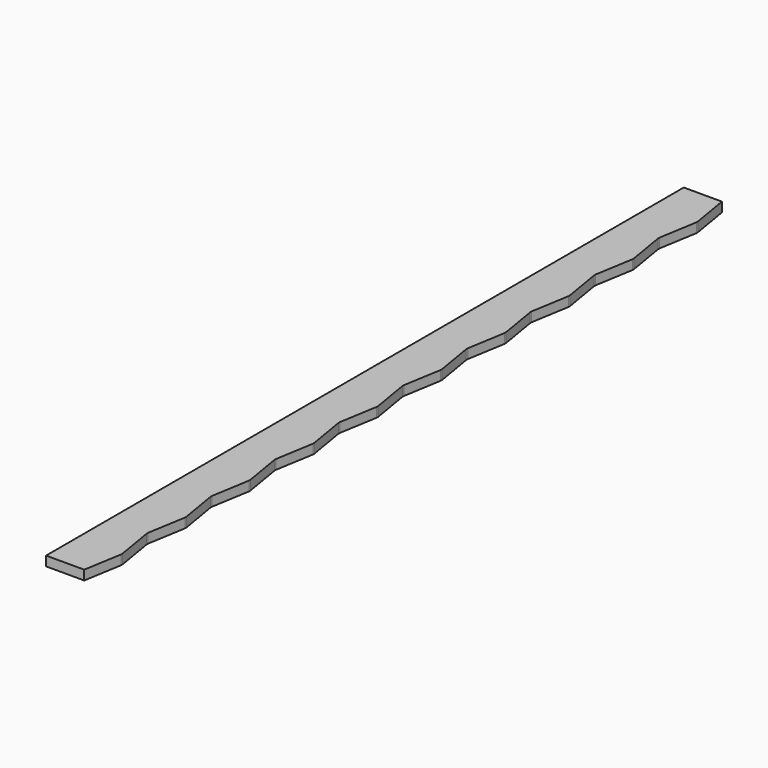
from build123d import *

# Parameters (mm, degrees)
F1_DEPTH = 6.35


with BuildPart() as f1:
    # F0 (on Top) → F1 (new body)
    with BuildSketch(Plane.XY):
        Polygon((0, 530.670697), (0, 0), (25.4, 0), (25.4, 51.906097), (25.4, 53.196067), (25.4, 105.102164), (25.4, 106.392133), (25.4, 158.298231), (25.4, 159.5882), (25.4, 211.494297), (25.4, 212.784267), (25.4, 264.690364), (25.4, 265.980333), (25.4, 317.886431), (25.4, 319.1764), (25.4, 371.082497), (25.4, 372.372467), (25.4, 424.278564), (25.4, 425.568533), (25.4, 477.474631), (25.4, 478.7646), (25.4, 530.670697), align=None)
        Polygon((25.4, 51.906097), (25.4, 0), (29.633333, 25.308064), (29.633333, 26.598033), align=None)
        Polygon((29.633333, 505.362633), (25.4, 530.670697), (25.4, 478.7646), (29.633333, 504.072664), align=None)
        Polygon((25.4, 105.102164), (25.4, 53.196067), (29.633333, 78.504131), (29.633333, 79.7941), align=None)
        Polygon((29.633333, 452.166567), (25.4, 477.474631), (25.4, 425.568533), (29.633333, 450.876597), align=None)
        Polygon((25.4, 158.298231), (25.4, 106.392133), (29.633333, 131.700197), (29.633333, 132.990167), align=None)
        Polygon((29.633333, 398.9705), (25.4, 424.278564), (25.4, 372.372467), (29.633333, 397.680531), align=None)
        Polygon((25.4, 211.494297), (25.4, 159.5882), (29.633333, 184.896264), (29.633333, 186.186233), align=None)
        Polygon((29.633333, 345.774433), (25.4, 371.082497), (25.4, 319.1764), (29.633333, 344.484464), align=None)
        Polygon((25.4, 264.690364), (25.4, 212.784267), (29.633333, 238.092331), (29.633333, 239.3823), align=None)
        Polygon((29.633333, 292.578367), (25.4, 317.886431), (25.4, 265.980333), (29.633333, 291.288397), align=None)
        Polygon((0, 530.670697), (0, 0), (25.4, 0), (25.4, 51.906097), (25.4, 53.196067), (25.4, 105.102164), (25.4, 106.392133), (25.4, 158.298231), (25.4, 159.5882), (25.4, 211.494297), (25.4, 212.784267), (25.4, 264.690364), (25.4, 265.980333), (25.4, 317.886431), (25.4, 319.1764), (25.4, 371.082497), (25.4, 372.372467), (25.4, 424.278564), (25.4, 425.568533), (25.4, 477.474631), (25.4, 478.7646), (25.4, 530.670697), align=None)
    extrude(amount=F1_DEPTH)


solid = f1.part
